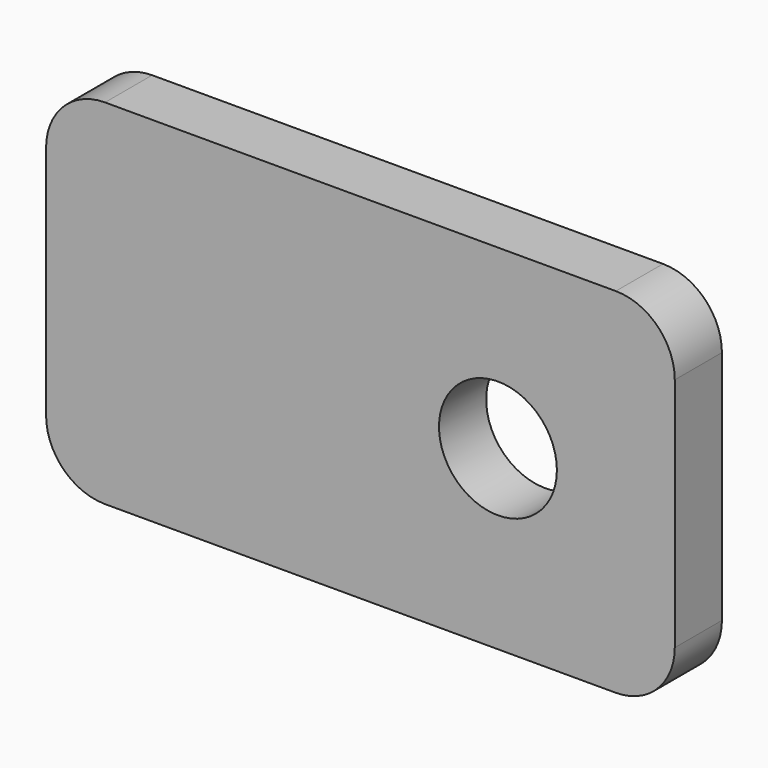
from build123d import *

# Parameters (mm, degrees)
F0_R     = 3
F1_DEPTH = 3


with BuildPart() as f1:
    # F0 (on Front) → F1 (new body)
    with BuildSketch(Plane.XZ):
        with BuildLine():
            Line((-13, -9), (13, -9))
            ThreePointArc((13, -9), (15.12132, -8.12132), (16, -6))
            Line((16, -6), (16, 6))
            ThreePointArc((16, 6), (15.12132, 8.12132), (13, 9))
            Line((13, 9), (-13, 9))
            ThreePointArc((-13, 9), (-15.12132, 8.12132), (-16, 6))
            Line((-16, 6), (-16, -6))
            ThreePointArc((-16, -6), (-15.12132, -8.12132), (-13, -9))
        make_face()
        with Locations((7, 0)):
            Circle(F0_R, mode=Mode.SUBTRACT)
    extrude(amount=F1_DEPTH)


solid = f1.part
